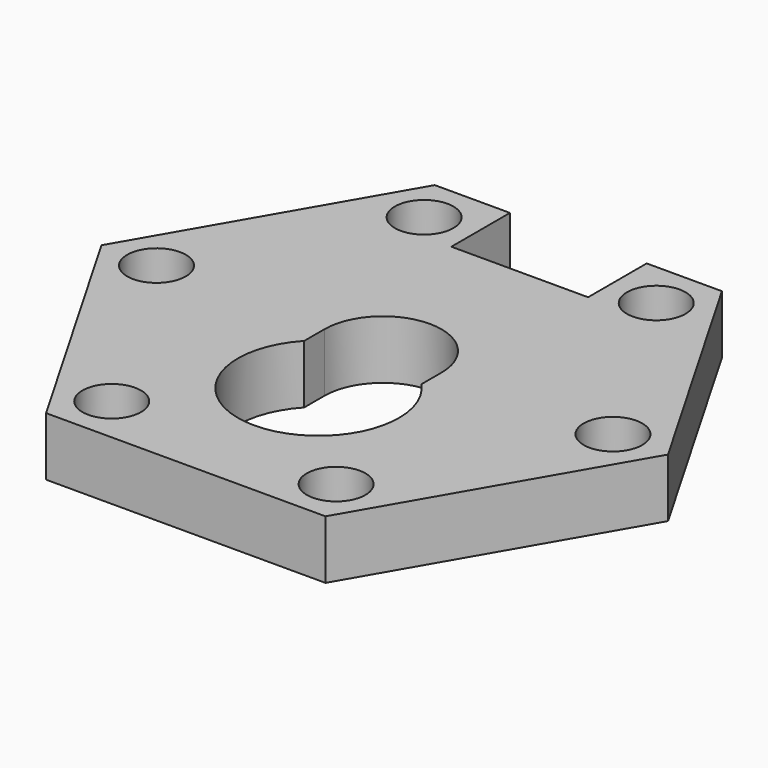
from build123d import *

# Parameters (mm, degrees)
F0_R     = 3
F1_DEPTH = 6


with BuildPart() as f1:
    # F0 (on Top) → F1 (new body)
    with BuildSketch(Plane.XY):
        Polygon((-14.69873, 25), (-29, 0.229473), (-14.30127, -25.229473), (14.30127, -25.229473), (29, 0.229473), (14.69873, 25), (7, 25), (7, 17.5), (-7, 17.5), (-7, 25), align=None)
        with Locations((-11.48334, -20.348674)):
            Circle(F0_R, mode=Mode.SUBTRACT)
        with Locations((11.48334, -20.348674)):
            Circle(F0_R, mode=Mode.SUBTRACT)
        with BuildLine():
            Line((-6, -2.587624), (-6, 0))
            ThreePointArc((-6, 0), (0, 6), (6, 0))
            Line((6, 0), (6, -2.587624))
            ThreePointArc((6, -2.587624), (0, -16.5), (-6, -2.587624))
        make_face(mode=Mode.SUBTRACT)
        with Locations((-23.364139, 0.229473)):
            Circle(F0_R, mode=Mode.SUBTRACT)
        with Locations((-11.880799, 20.119201)):
            Circle(F0_R, mode=Mode.SUBTRACT)
        with Locations((23.364139, 0.229473)):
            Circle(F0_R, mode=Mode.SUBTRACT)
        with Locations((11.880799, 20.119201)):
            Circle(F0_R, mode=Mode.SUBTRACT)
    extrude(amount=F1_DEPTH)


solid = f1.part
